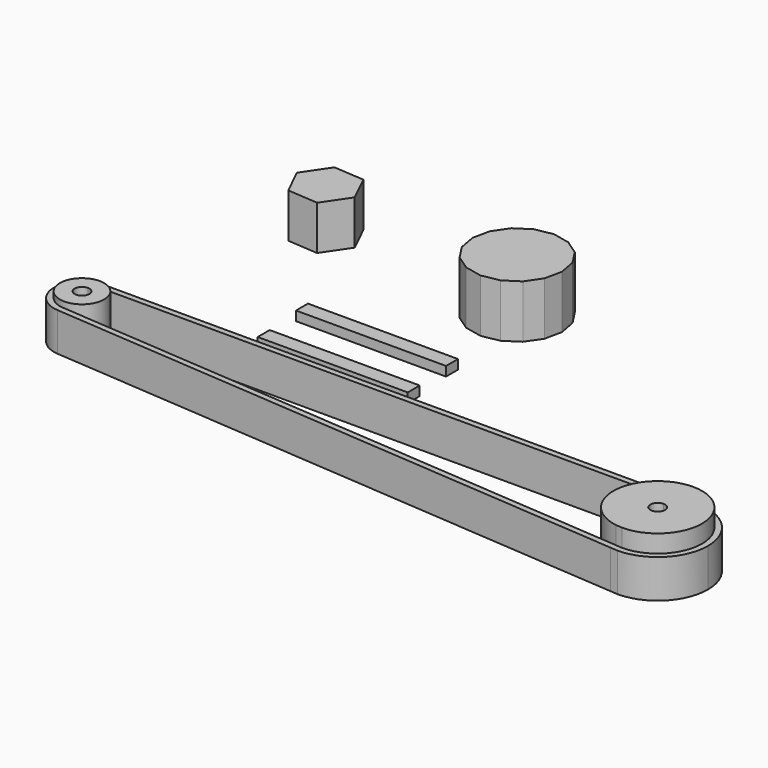
from build123d import *

# Parameters (mm, degrees)
F0_W     = 50.8
F0_H     = 5.08
F1_DEPTH = 3.175
F3_DEPTH = 15
F4_DEPTH = 19
F5_DEPTH = 13
F7_DEPTH = 15
F8_DEPTH = 18


with BuildPart() as f1:
    # F0 (on Top) → F1 (new body)
    with BuildSketch(Plane.XY):
        Rectangle(F0_W, F0_H)
    extrude(amount=F1_DEPTH)


with BuildPart() as f1b:
    # F0 (on Top) → F1, piece 2 (new body)
    with BuildSketch(Plane.XY):
        with Locations((-1.5689044958, 18.152654171)):
            Rectangle(F0_W, F0_H)
    extrude(amount=F1_DEPTH)


with BuildPart() as f3:
    # F2 (on Top) → F3 (new body)
    with BuildSketch(Plane.XY):
        with BuildLine():
            ThreePointArc((-63.8213878035, -36.3469927565), (-58.5180869446, -34.1502936154), (-56.3213878035, -28.8469927565))
            ThreePointArc((-56.3213878035, -28.8469927565), (-58.5180869446, -23.5436918976), (-63.8213878035, -21.3469927565))
            Line((-63.8213878035, -21.3469927565), (-63.8213878035, -26.3469927565))
            ThreePointArc((-63.8213878035, -26.3469927565), (-62.0536208505, -27.0792258036), (-61.3213878035, -28.8469927565))
            ThreePointArc((-61.3213878035, -28.8469927565), (-62.0536208505, -30.6147597095), (-63.8213878035, -31.3469927565))
            Line((-63.8213878035, -31.3469927565), (-63.8213878035, -36.3469927565))
        make_face()
        with BuildLine():
            Line((-63.8213878035, -26.3469927565), (-63.8213878035, -21.3469927565))
            ThreePointArc((-63.8213878035, -21.3469927565), (-71.3213878035, -28.8469927565), (-63.8213878035, -36.3469927565))
            Line((-63.8213878035, -36.3469927565), (-63.8213878035, -31.3469927565))
            ThreePointArc((-63.8213878035, -31.3469927565), (-66.3213878035, -28.8469927565), (-63.8213878035, -26.3469927565))
        make_face()
    extrude(amount=F3_DEPTH)


with BuildPart() as f4:
    # F2 (on Top) → F4 (new body)
    with BuildSketch(Plane.XY):
        with BuildLine():
            ThreePointArc((152.0586520213, -36.3469927565), (147.6652537391, -25.7403910387), (137.0586520213, -21.3469927565))
            Line((137.0586520213, -21.3469927565), (137.0586520213, -33.8469927565))
            ThreePointArc((137.0586520213, -33.8469927565), (138.8264189743, -34.5792258036), (139.5586520213, -36.3469927565))
            ThreePointArc((139.5586520213, -36.3469927565), (138.8264189743, -38.1147597095), (137.0586520213, -38.8469927565))
            Line((137.0586520213, -38.8469927565), (137.0586520213, -51.3469927565))
            ThreePointArc((137.0586520213, -51.3469927565), (147.6652537391, -46.9535944743), (152.0586520213, -36.3469927565))
        make_face()
        with BuildLine():
            Line((137.0586520213, -33.8469927565), (137.0586520213, -21.3469927565))
            ThreePointArc((137.0586520213, -21.3469927565), (122.10018156, -35.2315728991), (134.8339886894, -51.1811045621))
            Line((134.8339886894, -51.1811045621), (137.0586520213, -51.3469927565))
            Line((137.0586520213, -51.3469927565), (137.0586520213, -38.8469927565))
            ThreePointArc((137.0586520213, -38.8469927565), (134.5586520213, -36.3469927565), (137.0586520213, -33.8469927565))
        make_face()
    extrude(amount=F4_DEPTH)


with BuildPart() as f5:
    # F2 (on Top) → F5 (new body)
    with BuildSketch(Plane.XY):
        with BuildLine():
            ThreePointArc((137.0575793333, -19.3469927904), (132.9350260676, -19.8547003448), (129.0586520213, -21.3469927565))
            Line((129.0586520213, -21.3469927565), (137.0586520213, -21.3469927565))
            ThreePointArc((137.0586520213, -21.3469927565), (147.6652537391, -25.7403910387), (152.0586520213, -36.3469927565))
            ThreePointArc((152.0586520213, -36.3469927565), (147.6652537391, -46.9535944743), (137.0586520213, -51.3469927565))
            ThreePointArc((137.0586520213, -51.3469927565), (135.9432321639, -51.3054632178), (134.8339886894, -51.1811045621))
            Line((134.8339886894, -51.1811045621), (127.8912978898, -50.6634035577))
            ThreePointArc((127.8912978898, -50.6634035577), (131.0835437493, -52.2623338191), (134.5393355413, -53.1592812526))
            Line((134.5393355413, -53.1592812526), (137.0575793333, -53.3469927227))
            ThreePointArc((137.0575793333, -53.3469927227), (149.079088043, -48.3681872832), (154.0586520213, -36.3469927565))
            ThreePointArc((154.0586520213, -36.3469927565), (149.079088043, -24.3257982299), (137.0575793333, -19.3469927904))
        make_face()
        with BuildLine():
            ThreePointArc((-63.3314036954, -19.3596371938), (-60.5083901395, -19.9433953668), (-57.9904359086, -21.3469927565))
            Line((-57.9904359086, -21.3469927565), (129.0586520213, -21.3469927565))
            ThreePointArc((129.0586520213, -21.3469927565), (132.9350260676, -19.8547003448), (137.0575793333, -19.3469927904))
            Line((137.0575793333, -19.3469927904), (-63.3314036954, -19.3596371938))
        make_face()
        with BuildLine():
            Line((127.8912978898, -50.6634035577), (-58.5642896201, -36.7598252893))
            ThreePointArc((-58.5642896201, -36.7598252893), (-61.4158085689, -38.0373784147), (-64.5275646067, -38.3207097843))
            Line((-64.5275646067, -38.3207097843), (134.5393355413, -53.1592812526))
            ThreePointArc((134.5393355413, -53.1592812526), (131.0835437493, -52.2623338191), (127.8912978898, -50.6634035577))
        make_face()
        with BuildLine():
            ThreePointArc((-63.8213878035, -36.3469927565), (-71.3213878035, -28.8469927565), (-63.8213878035, -21.3469927565))
            Line((-63.8213878035, -21.3469927565), (-57.9904359086, -21.3469927565))
            ThreePointArc((-57.9904359086, -21.3469927565), (-60.5083901395, -19.9433953668), (-63.3314036954, -19.3596371938))
            Line((-63.3314036954, -19.3596371938), (-64.3125691985, -19.3596991047))
            ThreePointArc((-64.3125691985, -19.3596991047), (-73.3207771608, -28.73928093), (-64.5275646067, -38.3207097843))
            ThreePointArc((-64.5275646067, -38.3207097843), (-61.4158085689, -38.0373784147), (-58.5642896201, -36.7598252893))
            Line((-58.5642896201, -36.7598252893), (-63.8213878035, -36.3678151756))
            Line((-63.8213878035, -36.3678151756), (-63.8213878035, -36.3469927565))
        make_face()
    extrude(amount=F5_DEPTH)


with BuildPart() as f7:
    # F6 (on Top) → F7 (new body)
    with BuildSketch(Plane.XY):
        Polygon((-46.9549453783, 49.5525677181), (-41.1264402413, 58.156550974), (-45.6634557461, 67.5061761167), (-56.028976388, 68.2518180035), (-61.857481525, 59.6478347477), (-57.3204660202, 50.298209605), align=None)
    extrude(amount=F7_DEPTH)


with BuildPart() as f8:
    # F6 (on Top) → F8 (new body)
    with BuildSketch(Plane.XY):
        Polygon((27.2367954121, 43.8576377804), (30.617481804, 48.7750025651), (31.8590347334, 54.6117879159), (30.7724390213, 60.4793961735), (27.523119015, 65.4845371709), (22.6057542303, 68.8652235629), (16.7689688795, 70.1067764922), (10.9013606219, 69.0201807801), (5.8962196245, 65.7708607738), (2.5155332325, 60.8534959891), (1.2739803032, 55.0167106384), (2.3605760153, 49.1491023807), (5.6098960216, 44.1439613833), (10.5272608063, 40.7632749914), (16.364046157, 39.521722062), (22.2316544147, 40.6083177741), align=None)
    extrude(amount=F8_DEPTH)


solid = Compound([f1.part, f1b.part, f3.part, f4.part, f5.part, f7.part, f8.part])
